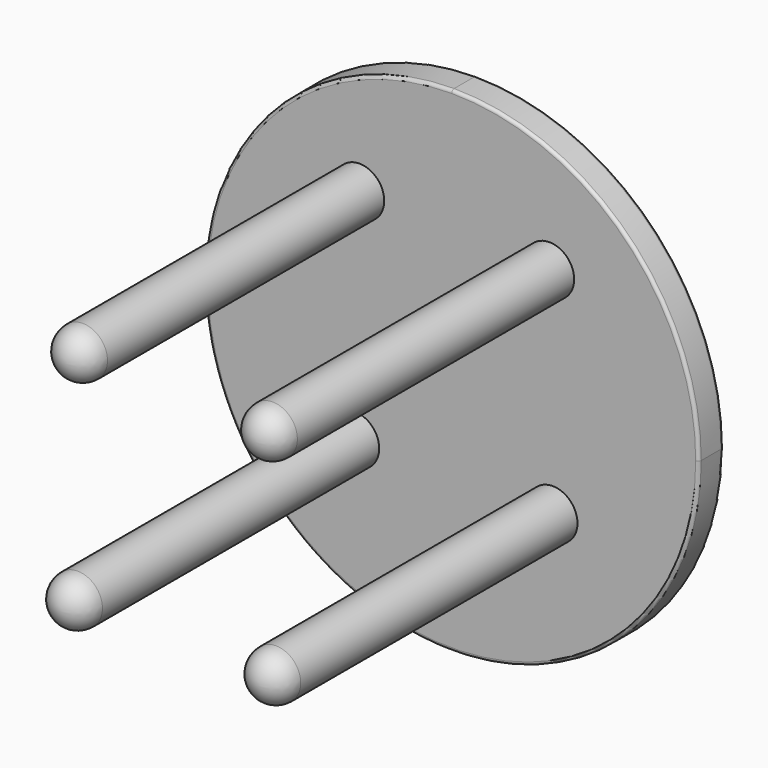
from build123d import *

# Parameters (mm, degrees)
F0_R     = 6.35
F1_DEPTH = 6.35
F2_R     = 0.635
F3_R     = 5.08
F4_DEPTH = 76.2
F5_DEPTH = 76.2
F6_R     = 5.08


with BuildPart() as f1:
    # F0 (on Front) → F1 (new body)
    with BuildSketch(Plane.XZ):
        with BuildLine():
            ThreePointArc((0, 50.8), (-35.921024, -35.921024), (50.8, 0))
            Line((50.8, 0), (0, 0))
            Line((0, 0), (0, 50.8))
        make_face()
        with BuildLine():
            Line((0, 0), (50.8, 0))
            ThreePointArc((50.8, 0), (35.921024, 35.921024), (0, 50.8))
            Line((0, 50.8), (0, 0))
        make_face()
        with Locations((19.05, 25.4)):
            Circle(F0_R, mode=Mode.SUBTRACT)
        with Locations((19.05, 25.4)):
            Circle(F0_R)
    extrude(amount=F1_DEPTH)

    # F2
    f2_edges = [f1.edges().sort_by_distance(p)[0] for p in [
        (-50.8, -6.35, 0),
        (-50.8, 0, 0),
    ]]
    fillet(f2_edges, radius=F2_R)

    # F3 (on face) → F4 (join)
    with BuildSketch(Plane.XZ.offset(6.35)):
        with Locations((20.085614, 24.702994)):
            Circle(F3_R)
    extrude(amount=F4_DEPTH)

    # F3 (on face) → F5 (join)
    with BuildSketch(Plane.XZ.offset(6.35)):
        with Locations((20.085614, 24.702994)):
            Circle(F3_R)
        with Locations((20.771028, -19.2132)):
            Circle(F3_R)
        with Locations((-19.992113, -18.953562)):
            Circle(F3_R)
        with Locations((-18.953562, 26.223423)):
            Circle(F3_R)
    extrude(amount=F5_DEPTH)

    # F6
    f6_edges = [f1.edges().sort_by_distance(p)[0] for p in [
        (-24.033562, -82.55, 26.223423),
        (15.005614, -82.55, 24.702994),
        (-25.072113, -82.55, -18.953562),
        (15.691028, -82.55, -19.2132),
    ]]
    fillet(f6_edges, radius=F6_R)


solid = f1.part
